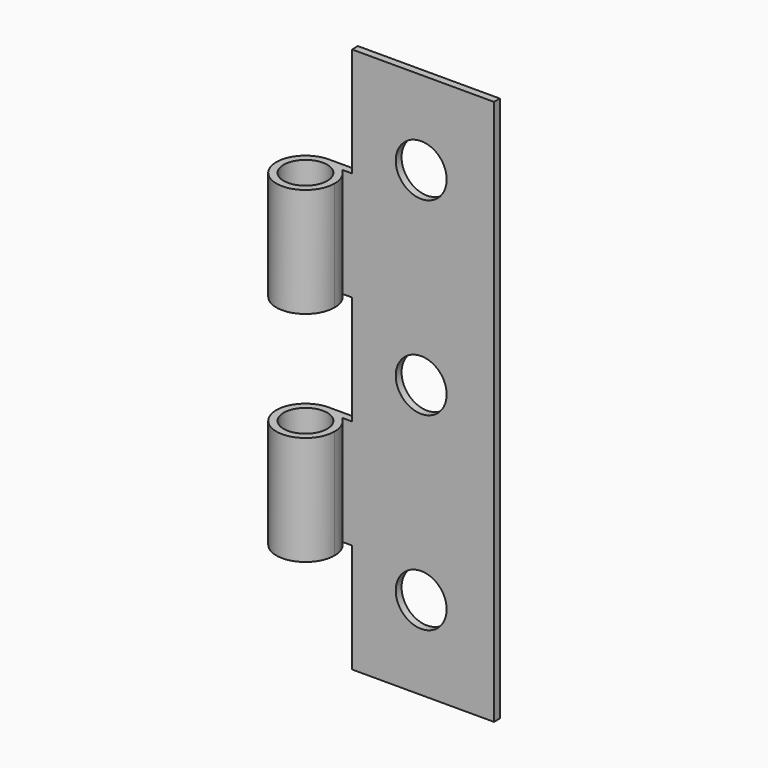
from build123d import *

# Parameters (mm, degrees)
F0_W          = 20
F0_H          = 75
F0_R          = 3.5
F1_DEPTH      = 1
F2_R          = 3
F3_DEPTH      = 75
F4_W          = 8
F4_H          = 15
F5_DEPTH      = 1.001
F5_DEPTH_BACK = 7.001


with BuildPart() as f1:
    # F0 (on Front) → F1 (new body)
    with BuildSketch(Plane.XZ):
        with Locations((-10, 0)):
            Rectangle(F0_W, F0_H)
        with Locations((-10, -26)):
            Circle(F0_R, mode=Mode.SUBTRACT)
        with Locations((-10, 0)):
            Circle(F0_R, mode=Mode.SUBTRACT)
        with Locations((-10, 26)):
            Circle(F0_R, mode=Mode.SUBTRACT)
    extrude(amount=F1_DEPTH)

    # F2 (on face) → F3 (join, through all)
    with BuildSketch(Plane(origin=(0, 0, -37.5), x_dir=(1, 0, 0), z_dir=(0, 0, -1))):
        with BuildLine():
            ThreePointArc((-20.8542486889, 1), (-19.8542486889, 2.3542486889), (-19.5, 4))
            ThreePointArc((-19.5, 4), (-26.3284271247, 6.8284271247), (-23.5, 0))
            ThreePointArc((-23.5, 0), (-22.0857864376, 0.2583426132), (-20.8542486889, 1))
        make_face()
        with Locations((-23.5, 4)):
            Circle(F2_R, mode=Mode.SUBTRACT)
        with BuildLine():
            ThreePointArc((-20.8542486889, 1), (-22.0857864376, 0.2583426132), (-23.5, 0))
            Line((-23.5, 0), (-20, 0))
            Line((-20, 0), (-20, 1))
            Line((-20, 1), (-20.8542486889, 1))
        make_face()
    extrude(amount=-F3_DEPTH)

    # F4 (on face) → F5 (cut, two sides)
    with BuildSketch(Plane.XZ.offset(1)) as f5_sk:
        with Locations((-23.5, 30)):
            Rectangle(F4_W, F4_H)
        with Locations((-23.5, -30)):
            Rectangle(F4_W, F4_H)
        with Locations((-23.5, 0)):
            Rectangle(F4_W, F4_H)
    extrude(amount=-F5_DEPTH, mode=Mode.SUBTRACT)
    extrude(f5_sk.sketch, amount=F5_DEPTH_BACK, mode=Mode.SUBTRACT)


solid = f1.part
